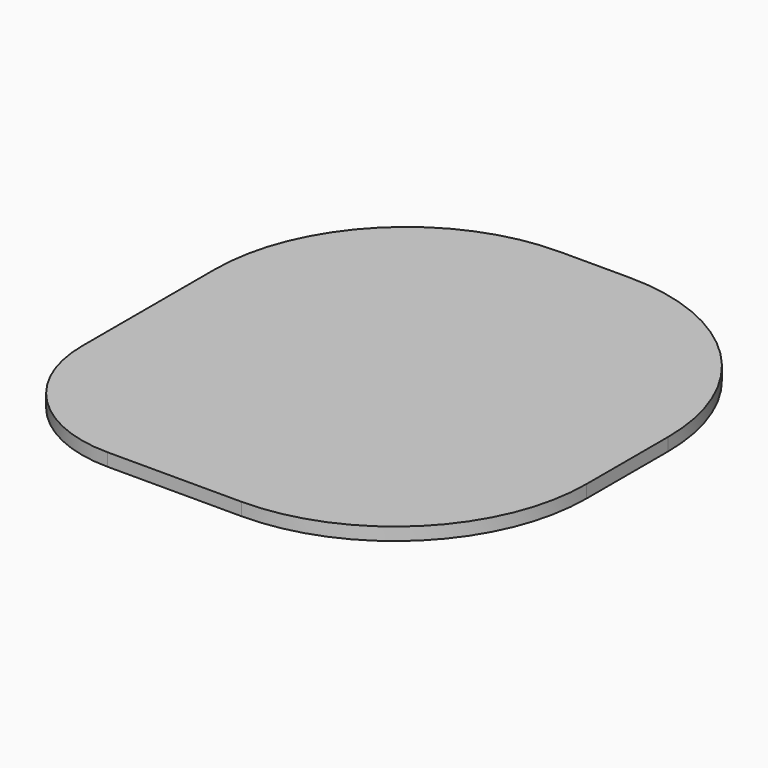
from build123d import *

# Parameters (mm, degrees)
BOX005_W          = 71
BOX005_H          = 76
BOX005_DEPTH      = 2
FILLET003002012_R = 20
FILLET003002013_R = 30
FILLET003002014_R = 30
FILLET003002015_R = 30


with BuildPart() as part:
    # Box005 → Box005 (new body)
    with BuildSketch(Plane(origin=(-35.5, -38, 20), x_dir=(1, 0, 0), z_dir=(0, 0, 1))):
        with Locations((35.5, 38)):
            Rectangle(BOX005_W, BOX005_H)
    extrude(amount=BOX005_DEPTH)

    # Fillet003002012
    fillet003002012_edges = [part.edges().sort_by_distance(p)[0] for p in [
        (-35.5, -38, 21),
    ]]
    fillet(fillet003002012_edges, radius=FILLET003002012_R)

    # Fillet003002013
    fillet003002013_edges = [part.edges().sort_by_distance(p)[0] for p in [
        (-35.5, 38, 21),
    ]]
    fillet(fillet003002013_edges, radius=FILLET003002013_R)

    # Fillet003002014
    fillet003002014_edges = [part.edges().sort_by_distance(p)[0] for p in [
        (35.5, 38, 21),
    ]]
    fillet(fillet003002014_edges, radius=FILLET003002014_R)

    # Fillet003002015
    fillet003002015_edges = [part.edges().sort_by_distance(p)[0] for p in [
        (35.5, -38, 21),
    ]]
    fillet(fillet003002015_edges, radius=FILLET003002015_R)


solid = part.part
